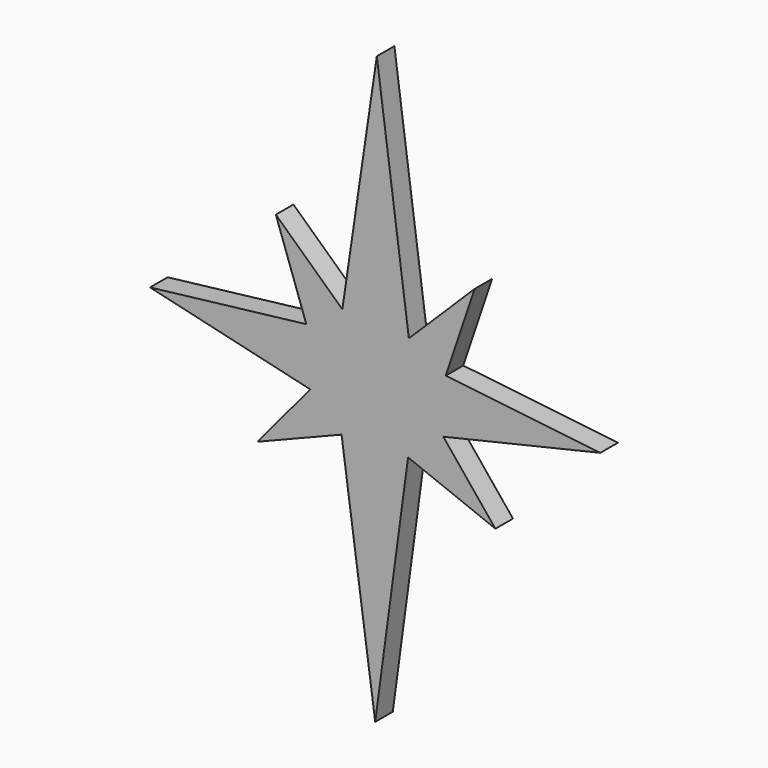
from build123d import *

# Parameters (mm, degrees)
F1_DEPTH = 11.0582
F2_SCALE = 0.3


with BuildPart() as f1:
    # F0 (on Front) → F1 (new body)
    with BuildSketch(Plane.XZ):
        Polygon((0.806323, 147.5619096), (-16.5301676, 29.8349162), (-49.993677, 60.879355), (-34.673032, 17.3364906), (-113.2920772, 8.063484), (-32.657161, -10.8857288), (-59.2666836, -42.736516), (-16.9333418, -25.8031742), (-2.54e-05, -147.5619096), (16.5301422, -24.9968258), (60.4761808, -42.3333418), (34.2698324, -10.0793804), (113.2920518, 8.4666582), (35.479355, 17.3364906), (49.9936262, 60.4761808), (16.9333164, 27.8190452), align=None)
    extrude(amount=F1_DEPTH)


with BuildPart() as f1_1:
    # F2: moved
    add(f1.part.scale(F2_SCALE).moved(Location((0.5644261, -7.74074, 103.29333672))))


with BuildPart() as f1_2:
    # F3: moved
    add(f1_1.part.moved(Location((59.91897, 0, -43.45396))))


solid = f1_2.part
